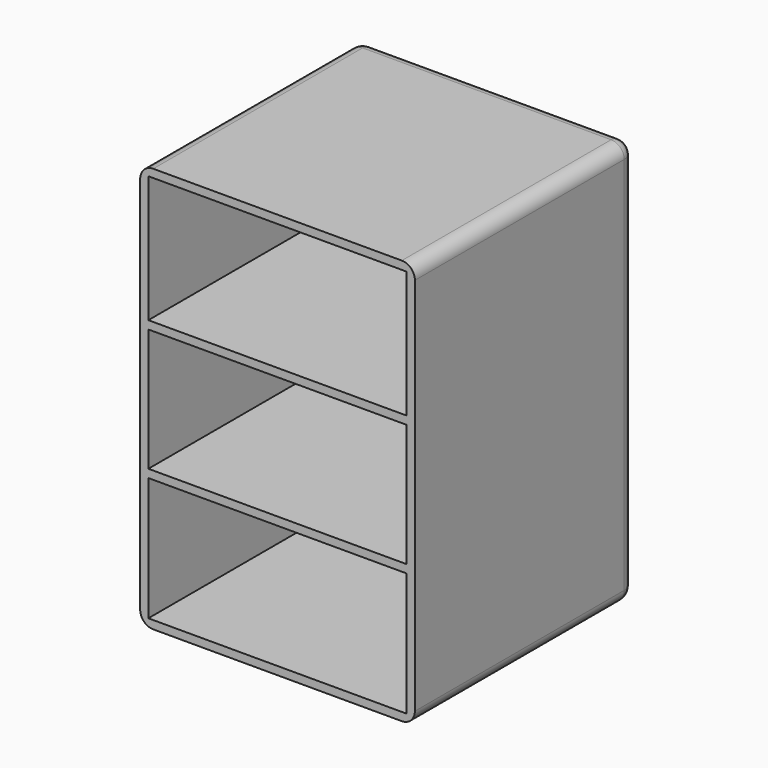
from build123d import *

# Parameters (mm, degrees)
F0_W     = 106.68
F0_H     = 157.48
F1_DEPTH = 106.68
F2_W     = 100.33
F2_H     = 151.13
F3_DEPTH = 101.6
F4_W     = 106.68
F4_H     = 1.5875
F5_DEPTH = 101.6
F6_R     = 5.08


with BuildPart() as f1:
    # F0 (on Front) → F1 (new body)
    with BuildSketch(Plane.XZ):
        with Locations((2.224307, 32.226964)):
            Rectangle(F0_W, F0_H)
    extrude(amount=F1_DEPTH)

    # F2 (on face) → F3 (cut)
    with BuildSketch(Plane.XZ.offset(106.68)):
        with Locations((2.224307, 32.226964)):
            Rectangle(F2_W, F2_H)
    extrude(amount=-F3_DEPTH, mode=Mode.SUBTRACT)

    # F4 (on face) → F5 (join)
    with BuildSketch(Plane.XZ.offset(106.68)):
        with Locations((2.224307, 56.198214)):
            Rectangle(F4_W, F4_H)
        with Locations((2.224307, 57.785714)):
            Rectangle(F4_W, F4_H)
        with Locations((2.224307, 6.985714)):
            Rectangle(F4_W, F4_H)
        with Locations((2.224307, 5.398214)):
            Rectangle(F4_W, F4_H)
    extrude(amount=-F5_DEPTH)

    # F6
    f6_edges = [f1.edges().sort_by_distance(p)[0] for p in [
        (55.564307, -53.34, 110.966964),
        (-51.115693, -53.34, 110.966964),
        (55.564307, -53.34, -46.513036),
        (-51.115693, -53.34, -46.513036),
        (-51.115693, 0, 32.226964),
        (2.224307, 0, 110.966964),
        (55.564307, 0, 32.226964),
        (2.224307, 0, -46.513036),
    ]]
    fillet(f6_edges, radius=F6_R)


solid = f1.part
